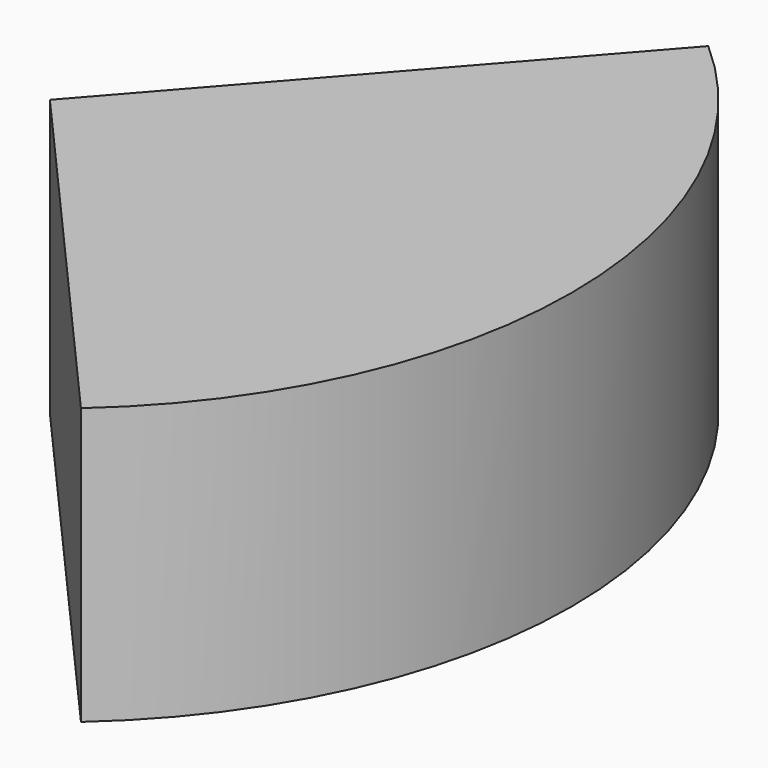
from build123d import *

# Parameters (mm, degrees)
F0_W     = 75.60677
F0_H     = 40
F1_ANGLE = 97.358319


with BuildPart() as f1:
    # F0 (on Front) → F1 (revolve, symmetric)
    with BuildSketch(Plane.XZ) as f1_sk:
        Rectangle(F0_W, F0_H)
    revolve(axis=Axis((-37.803385, 0, 0), (0, 0, -1)), revolution_arc=F1_ANGLE / 2)
    revolve(f1_sk.sketch, axis=Axis((-37.803385, 0, 0), (0, 0, 1)), revolution_arc=F1_ANGLE / 2)


solid = f1.part
